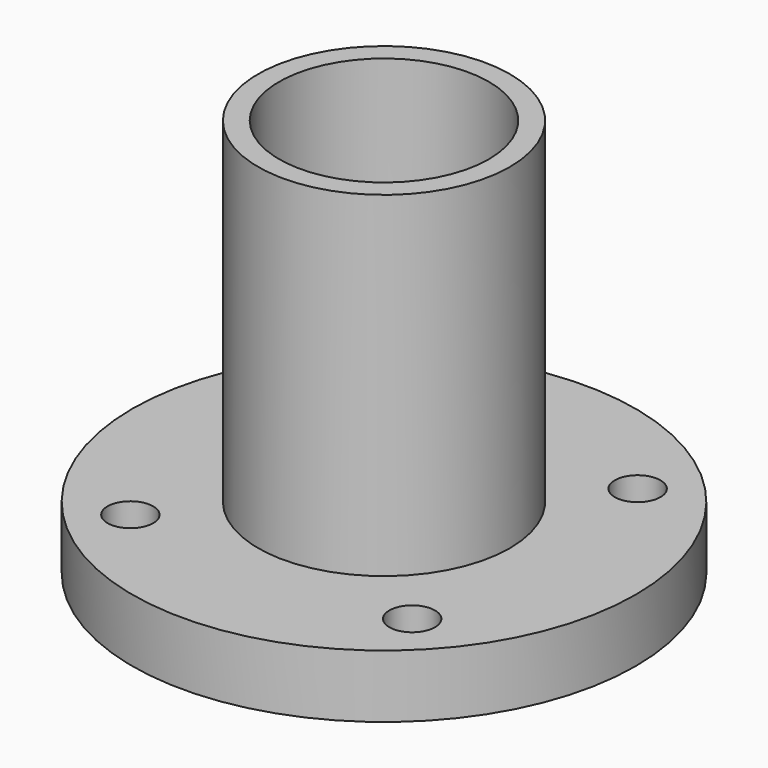
from build123d import *

# Parameters (mm, degrees)
F0_R     = 19.049995
F0_R_2   = 1.7272
F0_R_3   = 7.9375
F1_DEPTH = 4.7625
F3_R     = 9.525
F3_R_2   = 7.9375
F4_DEPTH = 25.4


with BuildPart() as f1:
    # F0 (on Top) → F1 (new body)
    with BuildSketch(Plane.XY):
        Circle(F0_R)
        with Locations((-10.66405, -10.66405)):
            Circle(F0_R_2, mode=Mode.SUBTRACT)
        with Locations((10.66405, -10.66405)):
            Circle(F0_R_2, mode=Mode.SUBTRACT)
        with Locations((-10.66405, 10.66405)):
            Circle(F0_R_2, mode=Mode.SUBTRACT)
        Circle(F0_R_3, mode=Mode.SUBTRACT)
        with Locations((10.66405, 10.66405)):
            Circle(F0_R_2, mode=Mode.SUBTRACT)
    extrude(amount=F1_DEPTH)

    # F3 (on face) → F4 (join)
    with BuildSketch(Plane.XY.offset(4.7625)):
        Circle(F3_R)
        Circle(F3_R_2, mode=Mode.SUBTRACT)
    extrude(amount=F4_DEPTH)


solid = f1.part
